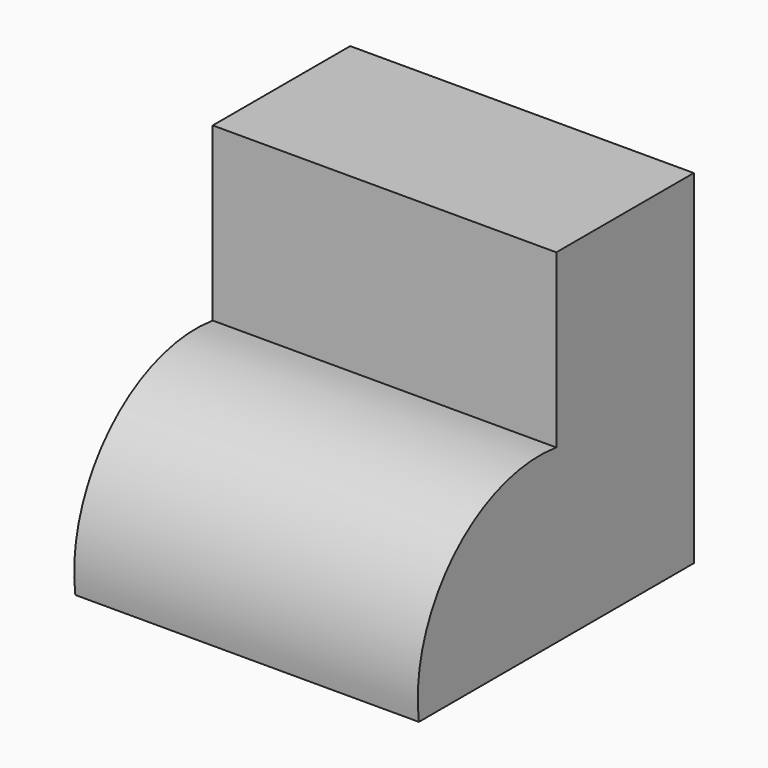
from build123d import *

# Parameters (mm, degrees)
F1_DEPTH = 50.8


with BuildPart() as f1:
    # F0 (on Right) → F1 (new body)
    with BuildSketch(Plane.YZ):
        with BuildLine():
            ThreePointArc((25.4, -12.695452), (6.388018, -19.08347), (0, -38.095452))
            Line((0, -38.095452), (50.8, -38.095452))
            Line((50.8, -38.095452), (50.8, 12.704548))
            Line((50.8, 12.704548), (25.4, 12.704548))
            Line((25.4, 12.704548), (25.4, -12.695452))
        make_face()
    extrude(amount=F1_DEPTH)


solid = f1.part
